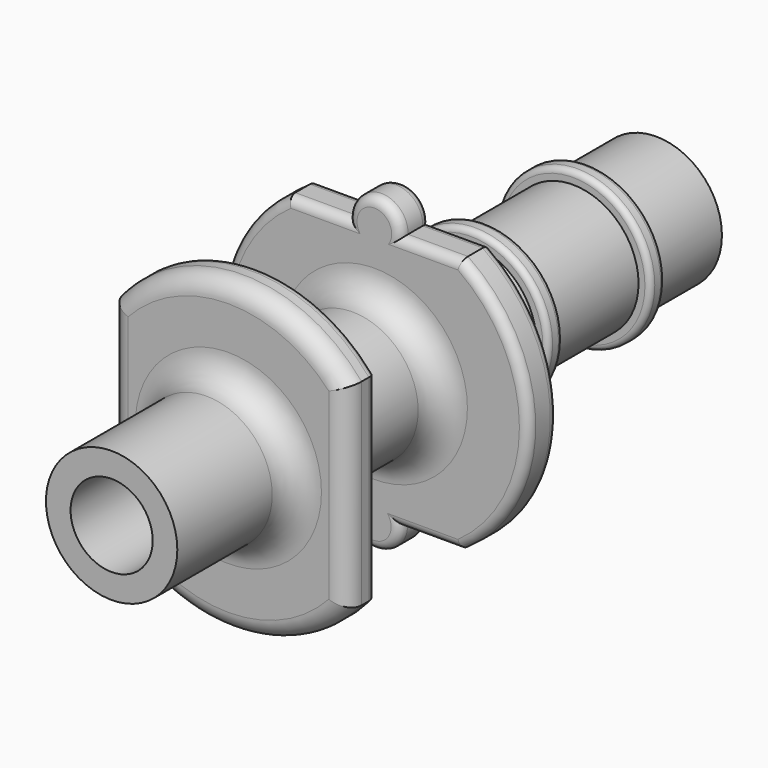
from build123d import *

# Parameters (mm, degrees)
F0_R      = 3.6
F0_R_2    = 2.25
F1_DEPTH  = 37.6
F6_R      = 4.25
F6_R_2    = 2.25
F7_DEPTH  = 1
F8_R      = 4.25
F8_R_2    = 2.25
F9_DEPTH  = 1
F10_R     = 2.25
F11_DEPTH = 2
F12_W     = 13
F12_H     = 10.7986110218
F12_R     = 2.25
F13_DEPTH = 2
F14_SIZE2 = 0.2886751346
F14_SIZE  = 0.5
F15_R     = 1.5
F16_R     = 1.5
F17_R     = 1.5
F18_R     = 0.3
F19_R     = 0.5
F20_R     = 1
F21_R     = 0.5
F22_R     = 0.3


with BuildPart() as f1:
    # F0 (on Front) → F1 (new body)
    with BuildSketch(Plane.XZ):
        Circle(F0_R)
        Circle(F0_R_2, mode=Mode.SUBTRACT)
    extrude(amount=F1_DEPTH)

    # F6 (on offset) → F7 (join)
    with BuildSketch(Plane.XZ.offset(6)):
        Circle(F6_R)
        Circle(F6_R_2, mode=Mode.SUBTRACT)
    extrude(amount=-F7_DEPTH)

    # F8 (on offset) → F9 (join)
    with BuildSketch(Plane.XZ.offset(13)):
        Circle(F8_R)
        Circle(F8_R_2, mode=Mode.SUBTRACT)
    extrude(amount=-F9_DEPTH)

    # F10 (on offset) → F11 (join)
    with BuildSketch(Plane.XZ.offset(17.6)):
        with BuildLine():
            Line((4.7331279298, 7), (1.4491651043, 7))
            ThreePointArc((1.4491651043, 7), (0, 8.4991985826), (-1.4491651043, 7))
            Line((-1.4491651043, 7), (-4.7331279298, 7))
            ThreePointArc((-4.7331279298, 7), (-8.45, 0), (-4.7331279298, -7))
            Line((-4.7331279298, -7), (-1.4785558319, -7))
            ThreePointArc((-1.4785558319, -7), (-0.031598195, -8.5438807592), (1.4153594419, -7))
            Line((1.4153594419, -7), (4.7331279298, -7))
            ThreePointArc((4.7331279298, -7), (8.45, 0), (4.7331279298, 7))
        make_face()
        Circle(F10_R, mode=Mode.SUBTRACT)
    extrude(amount=F11_DEPTH)

    # F12 (on offset) → F13 (join)
    with BuildSketch(Plane.XZ.offset(27.6)):
        Rectangle(F12_W, F12_H)
        Circle(F12_R, mode=Mode.SUBTRACT)
        with BuildLine():
            ThreePointArc((-6.5, -5.3993055109), (0, -8.45), (6.5, -5.3993055109))
            Line((6.5, -5.3993055109), (-6.5, -5.3993055109))
        make_face()
        with BuildLine():
            Line((-6.5, 5.3993055109), (6.5, 5.3993055109))
            ThreePointArc((6.5, 5.3993055109), (0, 8.45), (-6.5, 5.3993055109))
        make_face()
    extrude(amount=F13_DEPTH)

    # F14
    f14_edges = [f1.edges().sort_by_distance(p)[0] for p in [
        (-3.6, 0, 0),
    ]]
    f14_side = f1.faces().sort_by_distance((-3.498177, 0, 0))[0]
    chamfer(f14_edges, length=F14_SIZE, length2=F14_SIZE2, reference=f14_side)

    # F15
    f15_edges = [f1.edges().sort_by_distance(p)[0] for p in [
        (-3.6, -19.6, 0),
    ]]
    fillet(f15_edges, radius=F15_R)

    # F16
    f16_edges = [f1.edges().sort_by_distance(p)[0] for p in [
        (-3.6, -17.6, 0),
    ]]
    fillet(f16_edges, radius=F16_R)

    # F17
    f17_edges = [f1.edges().sort_by_distance(p)[0] for p in [
        (-3.6, -27.6, 0),
        (-3.6, -29.6, 0),
    ]]
    fillet(f17_edges, radius=F17_R)

    # F18
    f18_edges = [f1.edges().sort_by_distance(p)[0] for p in [
        (-4.25, -12, 0),
        (-4.25, -13, 0),
    ]]
    fillet(f18_edges, radius=F18_R)

    # F19
    f19_edges = [f1.edges().sort_by_distance(p)[0] for p in [
        (0, -27.6, 8.45),
        (-6.5, -27.6, 0),
        (0, -27.6, -8.45),
        (6.5, -27.6, 0),
    ]]
    fillet(f19_edges, radius=F19_R)

    # F20
    f20_edges = [f1.edges().sort_by_distance(p)[0] for p in [
        (-6.5, -29.6, 0),
        (0, -29.6, 8.45),
        (6.5, -29.6, 0),
        (0, -29.6, -8.45),
    ]]
    fillet(f20_edges, radius=F20_R)

    # F21
    f21_edges = [f1.edges().sort_by_distance(p)[0] for p in [
        (-8.45, -19.6, 0),
        (-3.091147, -19.6, 7),
        (0, -19.6, 8.499199),
        (3.091147, -19.6, 7),
        (8.45, -19.6, 0),
        (3.074244, -19.6, -7),
        (-0.031598, -19.6, -8.543881),
        (-3.105842, -19.6, -7),
        (-3.105842, -17.6, -7),
        (-0.031598, -17.6, -8.543881),
        (3.074244, -17.6, -7),
        (8.45, -17.6, 0),
        (3.091147, -17.6, 7),
        (0, -17.6, 8.499199),
        (-3.091147, -17.6, 7),
        (-8.45, -17.6, 0),
    ]]
    fillet(f21_edges, radius=F21_R)

    # F22
    f22_edges = [f1.edges().sort_by_distance(p)[0] for p in [
        (-4.25, -5, 0),
        (-4.25, -6, 0),
    ]]
    fillet(f22_edges, radius=F22_R)


solid = f1.part
